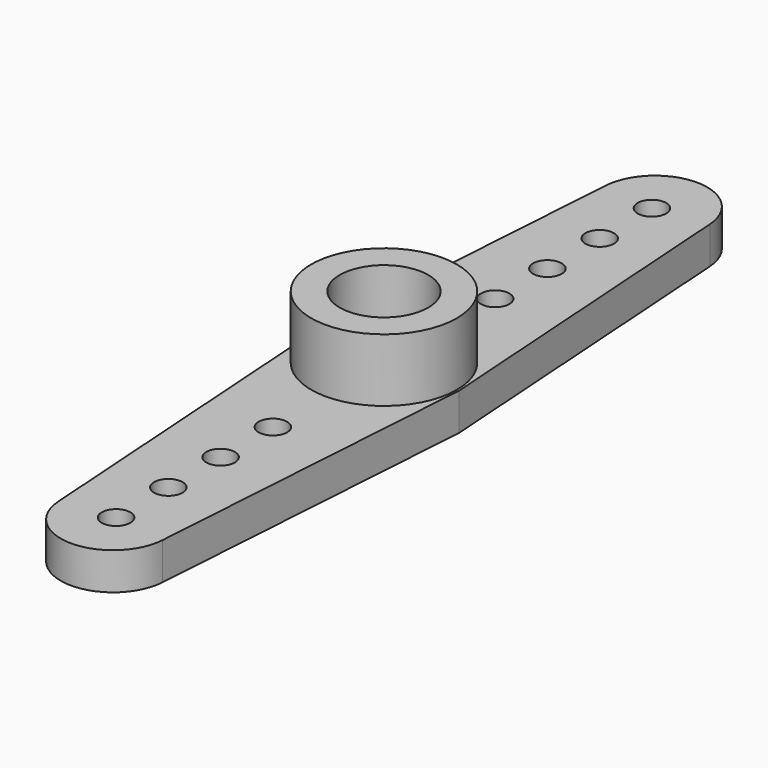
from build123d import *

# Parameters (mm, degrees)
F0_R     = 0.685
F1_DEPTH = 1.78
F2_R     = 3.49
F2_R_2   = 2.12
F3_DEPTH = 3.02
F4_R     = 0.58
F5_DEPTH = 1.78


with BuildPart() as f1:
    # F0 (on Top) → F1 (new body)
    with BuildSketch(Plane.XY):
        with BuildLine():
            Line((3.6, 0), (2.4993728816, 16.3928100076))
            ThreePointArc((2.4993728816, 16.3928100076), (0, 18.73), (-2.4993728816, 16.3928100076))
            Line((-2.4993728816, 16.3928100076), (-3.6, 0))
            Line((-3.6, 0), (-2.4993728816, -16.3928100076))
            ThreePointArc((-2.4993728816, -16.3928100076), (0, -18.73), (2.4993728816, -16.3928100076))
            Line((2.4993728816, -16.3928100076), (3.6, 0))
        make_face()
        with Locations((0, -16.045)):
            Circle(F0_R, mode=Mode.SUBTRACT)
        with Locations((0, -12.915)):
            Circle(F0_R, mode=Mode.SUBTRACT)
        with Locations((0, -9.785)):
            Circle(F0_R, mode=Mode.SUBTRACT)
        with Locations((0, -6.655)):
            Circle(F0_R, mode=Mode.SUBTRACT)
        with Locations((0, 6.655)):
            Circle(F0_R, mode=Mode.SUBTRACT)
        with Locations((0, 9.785)):
            Circle(F0_R, mode=Mode.SUBTRACT)
        with Locations((0, 12.915)):
            Circle(F0_R, mode=Mode.SUBTRACT)
        with Locations((0, 16.045)):
            Circle(F0_R, mode=Mode.SUBTRACT)
    extrude(amount=F1_DEPTH)

    # F2 (on face) → F3 (join)
    with BuildSketch(Plane.XY.offset(1.78)):
        Circle(F2_R)
        Circle(F2_R_2, mode=Mode.SUBTRACT)
    extrude(amount=F3_DEPTH)

    # F4 (on face) → F5 (cut, through all)
    with BuildSketch(Plane.XY.offset(1.78)):
        Circle(F4_R)
    extrude(amount=-F5_DEPTH, mode=Mode.SUBTRACT)


solid = f1.part
